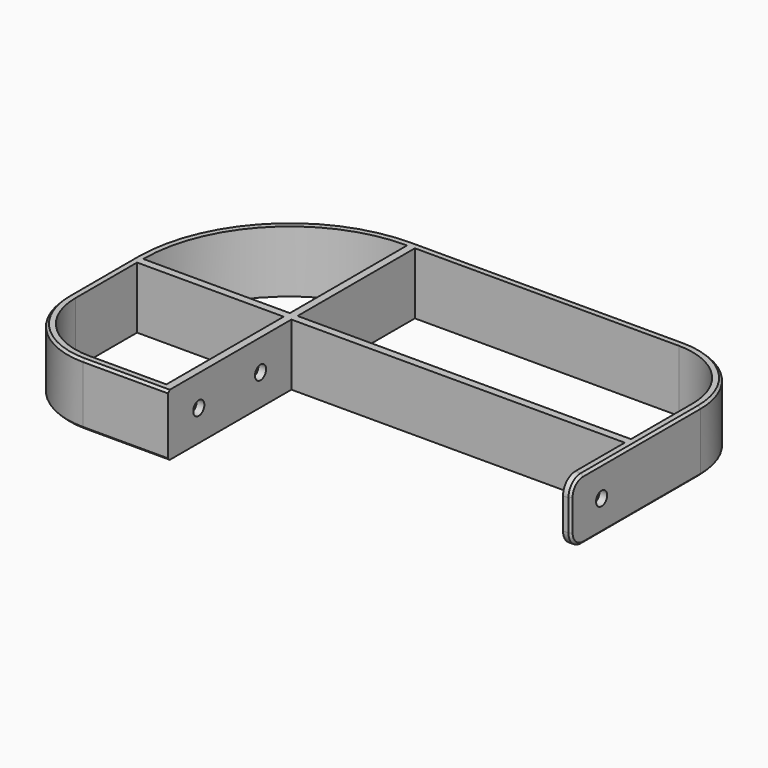
from build123d import *

# Parameters (mm, degrees)
PAD_DEPTH       = 20
SKETCH001_R     = 2.25
POCKET_DEPTH    = 2.5
SKETCH002_R     = 2.25
POCKET001_DEPTH = 2.5
FILLET_R        = 5
CHAMFER_SIZE    = 0.75


with BuildPart() as part:
    # Sketch → Pad (new body)
    with BuildSketch(Plane.XY):
        with BuildLine():
            Line((0, 0), (0, -50))
            Line((-27.500003, -50), (0, -50))
            ThreePointArc((-52.5, -25.000001), (-45.17767, -42.677669), (-27.500003, -50))
            Line((-52.5, -25.000001), (-52.5, 0))
            Line((-52.5, 2.5), (-52.5, 0))
            ThreePointArc((-2.5, 52.5), (-37.855339, 37.855339), (-52.5, 2.5))
            Line((0, 52.5), (-2.5, 52.5))
            Line((85.499965, 52.5), (0, 52.5))
            ThreePointArc((110.5, 27.499999), (103.177657, 45.177682), (85.499965, 52.5))
            Line((110.5, -25), (110.5, 27.499999))
            Line((108, -25), (110.5, -25))
            Line((108, 0), (108, -25))
            Line((0, 0), (108, 0))
        make_face()
        with BuildLine():
            Line((-2.5, 0), (-2.5, -47.5))
            Line((-27.5, -47.5), (-2.5, -47.5))
            ThreePointArc((-50, -25), (-43.409903, -40.909903), (-27.5, -47.5))
            Line((-50, 0), (-50, -25))
            Line((-2.5, 0), (-50, 0))
        make_face(mode=Mode.SUBTRACT)
        with BuildLine():
            Line((0, 2.5), (108, 2.5))
            Line((108, 2.5), (108, 27.5))
            ThreePointArc((108, 27.5), (101.409903, 43.409903), (85.5, 50))
            Line((85.5, 50), (0, 50))
            Line((0, 50), (0, 2.5))
        make_face(mode=Mode.SUBTRACT)
        with BuildLine():
            ThreePointArc((-2.5, 50), (-36.087572, 36.087572), (-50, 2.5))
            Line((-2.5, 2.5), (-50, 2.5))
            Line((-2.5, 50), (-2.5, 2.5))
        make_face(mode=Mode.SUBTRACT)
    extrude(amount=PAD_DEPTH)

    # Sketch001 (on Face7 of Pad) → Pocket (cut)
    with BuildSketch(Plane.YZ):
        with Locations((-37.5, 10)):
            Circle(SKETCH001_R)
        with Locations((-12.5, 10)):
            Circle(SKETCH001_R)
    extrude(amount=-POCKET_DEPTH, mode=Mode.SUBTRACT)

    # Sketch002 (on Face5 of Pad) → Pocket001 (cut)
    with BuildSketch(Plane(origin=(108, 0, 0), x_dir=(0, -1, 0), z_dir=(-1, 0, 0))):
        with Locations((12.5, 10)):
            Circle(SKETCH002_R)
    extrude(amount=-POCKET001_DEPTH, mode=Mode.SUBTRACT)

    # Fillet
    fillet_edges = [part.edges().sort_by_distance(p)[0] for p in [
        (109.25, -25, 0),
        (109.25, -25, 20),
    ]]
    fillet(fillet_edges, radius=FILLET_R)

    # Chamfer
    chamfer_edges = [part.edges().sort_by_distance(p)[0] for p in [
        (-37.855339, 37.855339, 20),
        (-37.855339, 37.855339, 0),
    ]]
    chamfer(chamfer_edges, length=CHAMFER_SIZE)


solid = part.part
